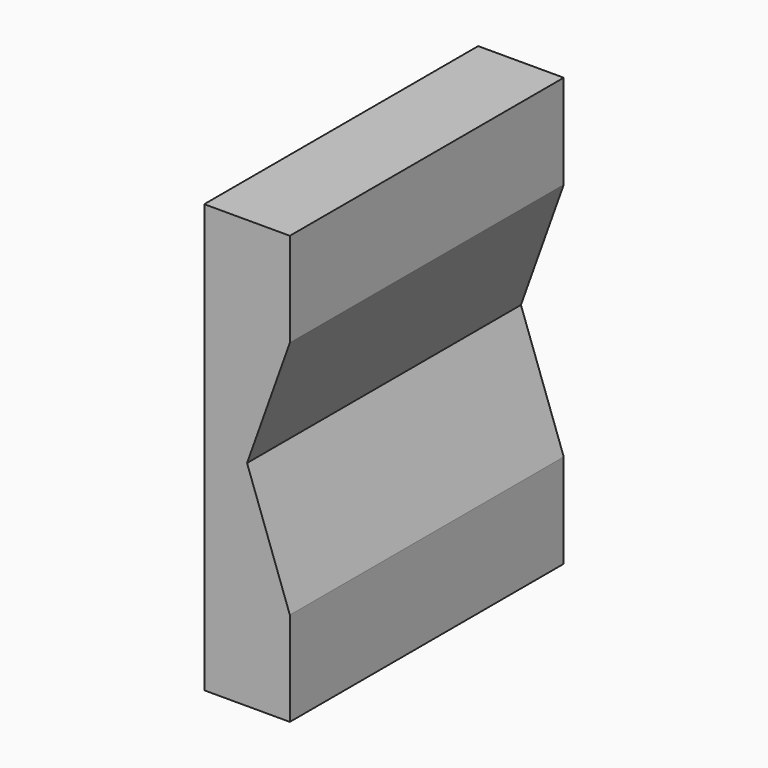
from build123d import *

# Parameters (mm, degrees)
F0_W     = 10
F0_H     = 40
F1_DEPTH = 50
F3_DEPTH = 43.6


with BuildPart() as f1:
    # F0 (on Top) → F1 (new body)
    with BuildSketch(Plane.XY):
        Rectangle(F0_W, F0_H)
    extrude(amount=F1_DEPTH)

    # F2 (on face) → F3 (cut)
    with BuildSketch(Plane.XZ.offset(20)):
        Polygon((5, 11), (5, 25), (5, 39), (0, 25), align=None)
    extrude(amount=-F3_DEPTH, mode=Mode.SUBTRACT)


solid = f1.part
